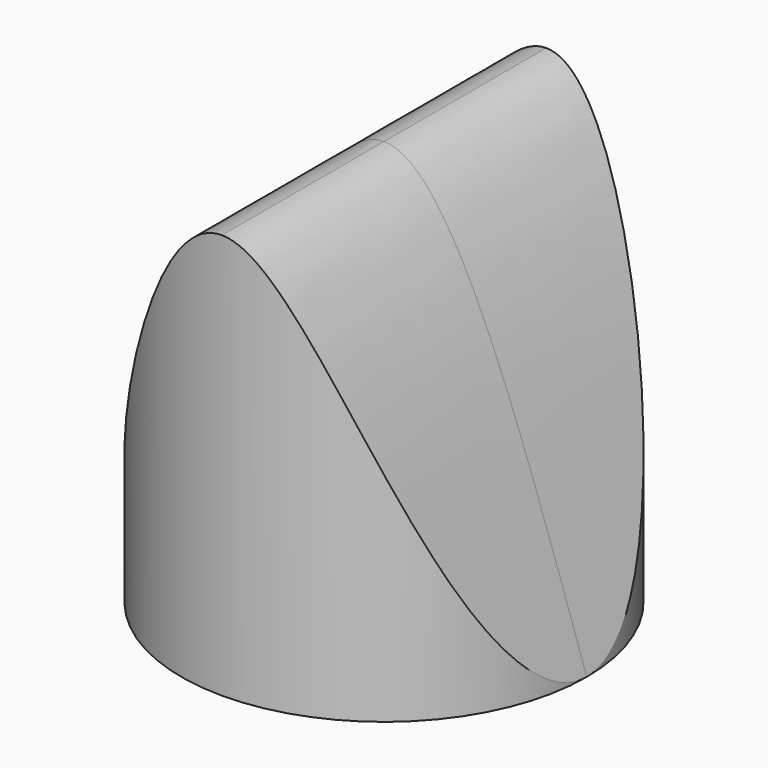
from build123d import *

# Parameters (mm, degrees)
F0_R     = 12.7
F1_DEPTH = 25.4
F3_DEPTH = 25.4
F6_DEPTH = 76.2


with BuildPart() as f1:
    # F0 (on Top) → F1 (new body)
    with BuildSketch(Plane.XY):
        Circle(F0_R)
    extrude(amount=F1_DEPTH)

    # F2 (on Front) → F3 (cut, symmetric)
    with BuildSketch(Plane.XZ):
        with BuildLine():
            Line((-12.7, 25.4), (-12.7, 0))
            add(Edge.make_bspline(
                [(-12.7, 0), (-8.466667, 12.7), (-4.233333, 25.4), (0, 25.4)],
                knots=[0, 0, 0, 0, 28.398063, 28.398063, 28.398063, 28.398063], degree=3))
            Line((0, 25.4), (-12.7, 25.4))
        make_face()
        with BuildLine():
            Line((12.7, 25.4), (0, 25.4))
            add(Edge.make_bspline(
                [(0, 25.4), (4.233333, 25.4), (8.466667, 12.7), (12.7, 0)],
                knots=[28.398063, 28.398063, 28.398063, 28.398063, 56.796127, 56.796127, 56.796127, 56.796127], degree=3))
            Line((12.7, 0), (12.7, 25.4))
        make_face()
    extrude(amount=F3_DEPTH, both=True, mode=Mode.SUBTRACT)

    # F5 (on offset) → F6 (cut)
    with BuildSketch(Plane.XZ.offset(25.4)):
        with BuildLine():
            add(Edge.make_bspline(
                [(0, 25.4), (4.233333, 25.4), (8.466667, 12.7), (12.7, 0)],
                knots=[28.398063, 28.398063, 28.398063, 28.398063, 56.796127, 56.796127, 56.796127, 56.796127], degree=3))
            Line((12.7, 0), (12.7, 25.4))
            Line((12.7, 25.4), (0, 25.4))
        make_face()
        with BuildLine():
            Line((-12.7, 25.4), (-12.7, 0))
            add(Edge.make_bspline(
                [(-12.7, 0), (-8.466667, 12.7), (-4.233333, 25.4), (0, 25.4)],
                knots=[0, 0, 0, 0, 28.398063, 28.398063, 28.398063, 28.398063], degree=3))
            Line((0, 25.4), (-12.7, 25.4))
        make_face()
    extrude(amount=-F6_DEPTH, mode=Mode.SUBTRACT)


solid = f1.part
